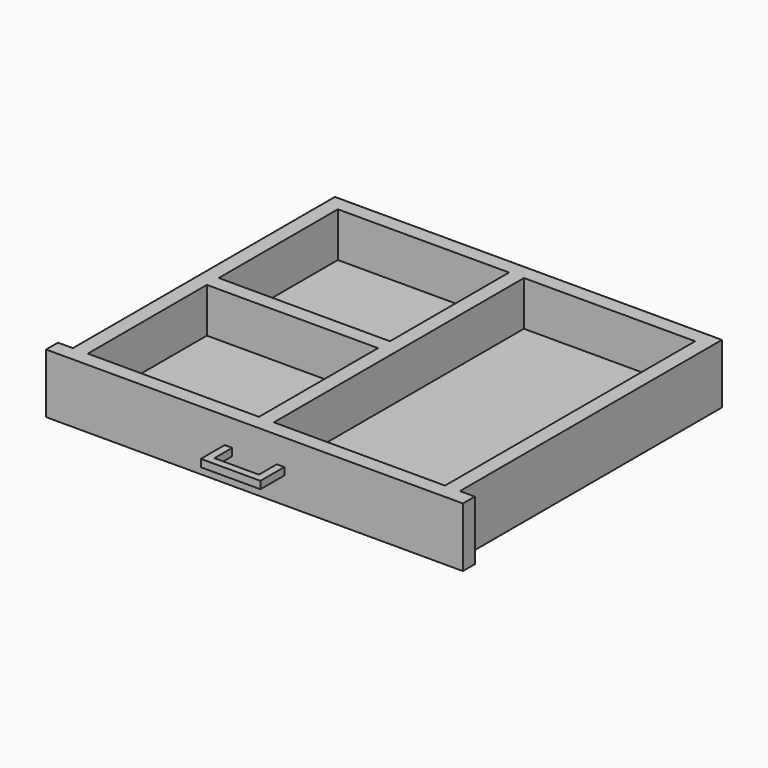
from build123d import *

# Parameters (mm, degrees)
F0_W      = 711.2
F0_H      = 101.6
F1_DEPTH  = 12.7
F2_W      = 660.4
F2_H      = 101.6
F3_DEPTH  = 558.8
F4_W      = 609.6
F4_H      = 533.4
F5_DEPTH  = 76.2
F7_DEPTH  = 6.35
F9_W      = 292.1
F9_H      = 25.4
F10_DEPTH = 76.2


with BuildPart() as f1:
    # F0 (on Front) → F1 (new body, symmetric)
    with BuildSketch(Plane.XZ):
        Rectangle(F0_W, F0_H)
    extrude(amount=F1_DEPTH, both=True)

    # F2 (on face) → F3 (join)
    with BuildSketch(Plane(origin=(0, 12.7, 0), x_dir=(-1, 0, 0), z_dir=(0, 1, 0))):
        Rectangle(F2_W, F2_H)
    extrude(amount=F3_DEPTH)

    # F4 (on face) → F5 (cut)
    with BuildSketch(Plane.XY.offset(50.8)):
        with Locations((0, 279.4)):
            Rectangle(F4_W, F4_H)
    extrude(amount=-F5_DEPTH, mode=Mode.SUBTRACT)

    # F6 (on Top) → F7 (join, symmetric)
    with BuildSketch(Plane.XY):
        Polygon((-38.009446, -12.7), (-50.8, -12.7), (-50.8, -63.5), (50.8, -63.5), (50.8, -12.7), (38.1, -12.7), (38.1, -50.8), (-38.009446, -50.8), align=None)
    extrude(amount=F7_DEPTH, both=True)

    # F9 (on face) → F10 (join)
    with BuildSketch(Plane.XY.offset(-25.4)):
        with Locations((-158.75, 279.4)):
            Rectangle(F9_W, F9_H)
        Polygon((-12.7, 546.1), (-12.7, 292.1), (-12.7, 266.7), (-12.7, 12.7), (12.7, 12.7), (12.7, 546.1), align=None)
    extrude(amount=F10_DEPTH)


solid = f1.part
